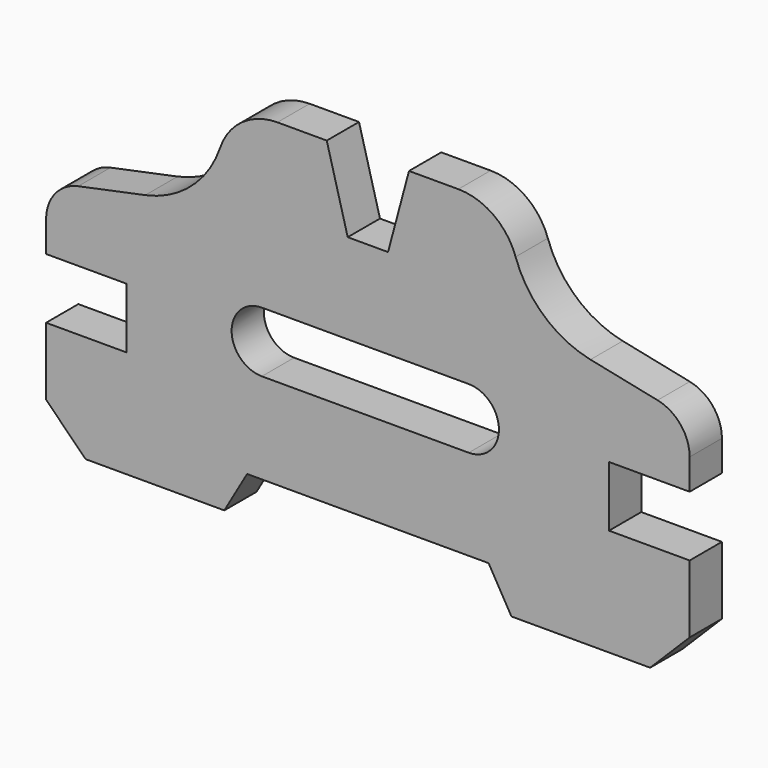
from build123d import *

# Parameters (mm, degrees)
F1_DEPTH = 6.35
F2_SIZE  = 12.446


with BuildPart() as f1:
    # F0 (on Front) → F1 (new body, symmetric)
    with BuildSketch(Plane.XZ):
        with BuildLine():
            Line((6.35, 38.239533), (0, 38.239533))
            Line((0, 38.239533), (-6.35, 38.239533))
            Line((-6.35, 38.239533), (-12.951732, 62.877533))
            Line((-12.951732, 62.877533), (-28.495513, 62.877533))
            ThreePointArc((-28.495513, 62.877533), (-39.577525, 59.32242), (-46.523284, 49.983992))
            ThreePointArc((-46.523284, 49.983992), (-55.553194, 36.446133), (-70.104, 29.160052))
            Line((-70.104, 29.160052), (-91.232227, 24.765415))
            ThreePointArc((-91.232227, 24.765415), (-98.498286, 20.345425), (-101.346, 12.331533))
            Line((-101.346, 12.331533), (-101.346, 2.679533))
            Line((-101.346, 2.679533), (-75.946, 2.679533))
            Line((-75.946, 2.679533), (-75.946, -16.370467))
            Line((-75.946, -16.370467), (-101.346, -16.370467))
            Line((-101.346, -16.370467), (-101.346, -50.152467))
            Line((-101.346, -50.152467), (-45.212, -50.152467))
            Line((-45.212, -50.152467), (-38.026299, -37.706467))
            Line((-38.026299, -37.706467), (0, -37.706467))
            Line((0, -37.706467), (38.026299, -37.706467))
            Line((38.026299, -37.706467), (45.212, -50.152467))
            Line((45.212, -50.152467), (101.346, -50.152467))
            Line((101.346, -50.152467), (101.346, -16.370467))
            Line((101.346, -16.370467), (75.946, -16.370467))
            Line((75.946, -16.370467), (75.946, 2.679533))
            Line((75.946, 2.679533), (101.346, 2.679533))
            Line((101.346, 2.679533), (101.346, 12.331533))
            ThreePointArc((101.346, 12.331533), (98.498286, 20.345425), (91.232227, 24.765415))
            Line((91.232227, 24.765415), (70.104, 29.160052))
            ThreePointArc((70.104, 29.160052), (55.553194, 36.446133), (46.523284, 49.983992))
            ThreePointArc((46.523284, 49.983992), (39.577525, 59.32242), (28.495513, 62.877533))
            Line((28.495513, 62.877533), (12.951732, 62.877533))
            Line((12.951732, 62.877533), (6.35, 38.239533))
        make_face()
        with BuildLine():
            ThreePointArc((-33.38948, -9.131467), (-42.91448, 0.393533), (-33.38948, 9.918533))
            Line((-33.38948, 9.918533), (31.75, 9.918533))
            ThreePointArc((31.75, 9.918533), (41.275, 0.393533), (31.75, -9.131467))
            Line((31.75, -9.131467), (-33.38948, -9.131467))
        make_face(mode=Mode.SUBTRACT)
    extrude(amount=F1_DEPTH, both=True)

    # F2
    f2_edges = [f1.edges().sort_by_distance(p)[0] for p in [
        (-101.346, 0, -50.152467),
        (101.346, 0, -50.152467),
    ]]
    chamfer(f2_edges, length=F2_SIZE)


solid = f1.part
